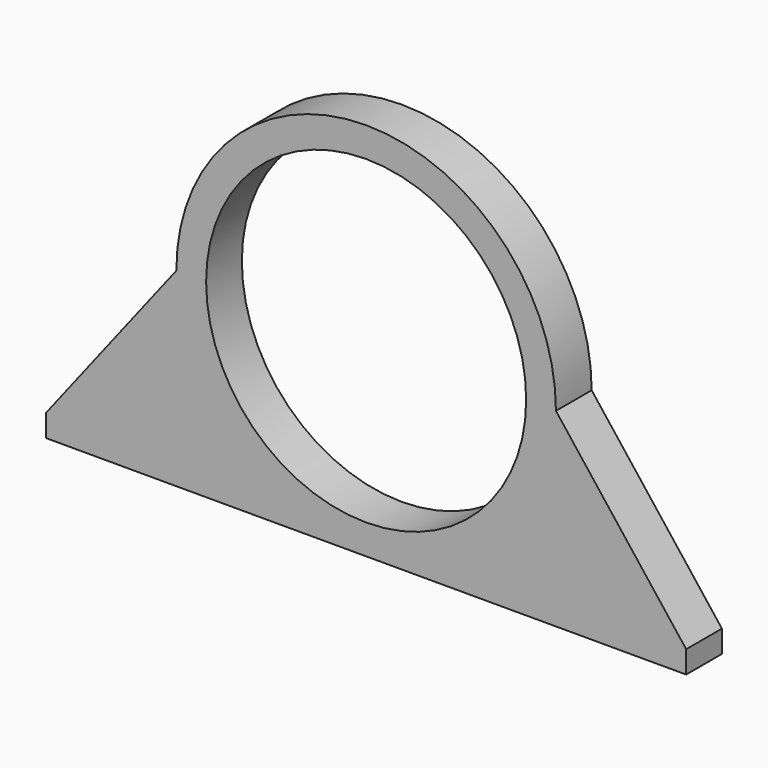
from build123d import *

# Parameters (mm, degrees)
F0_R     = 21.5
F1_DEPTH = 6


with BuildPart() as f1:
    # F0 (on Front) → F1 (new body)
    with BuildSketch(Plane.XZ):
        with BuildLine():
            Line((-43, -22.5), (-43, -25.5))
            Line((-43, -25.5), (43, -25.5))
            Line((43, -25.5), (43, -22.5))
            Line((43, -22.5), (25.5, 0))
            ThreePointArc((25.5, 0), (0, 25.5), (-25.5, 0))
            Line((-25.5, 0), (-43, -22.5))
        make_face()
        Circle(F0_R, mode=Mode.SUBTRACT)
    extrude(amount=F1_DEPTH)


solid = f1.part
